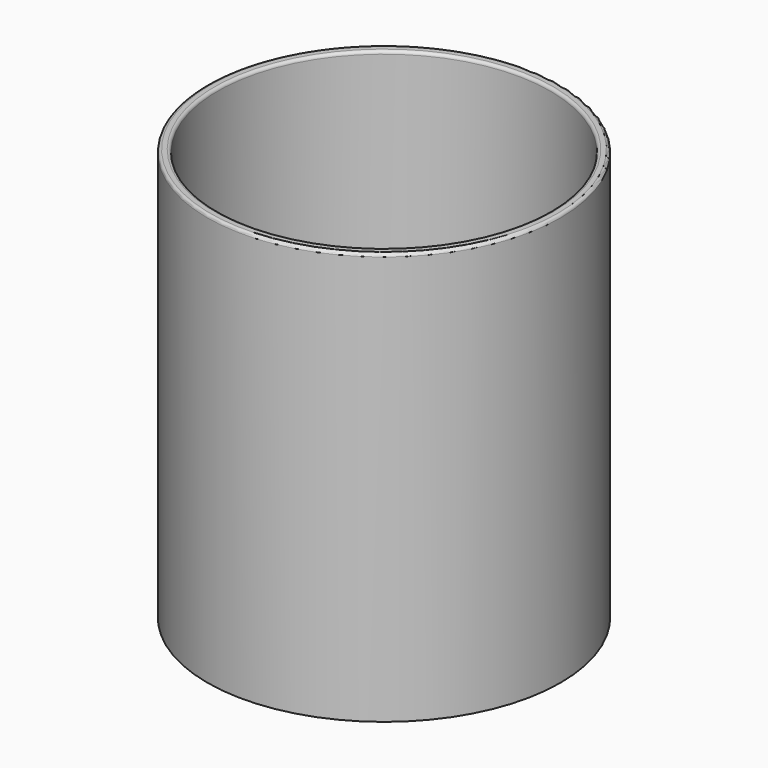
from build123d import *

# Parameters (mm, degrees)
F0_R     = 30
F1_DEPTH = 70
F2_T     = -1.75
F3_R     = 0.5


with BuildPart() as f1:
    # F0 (on Top) → F1 (new body)
    with BuildSketch(Plane.XY):
        Circle(F0_R)
    extrude(amount=F1_DEPTH)

    # F2
    f2_openings = [f1.faces().sort_by_distance(p)[0] for p in [
        (0, 0, 70),
    ]]
    offset(amount=F2_T, openings=f2_openings)

    # F3
    f3_edges = [f1.edges().sort_by_distance(p)[0] for p in [
        (-30, 0, 70),
        (-28.25, 0, 70),
    ]]
    fillet(f3_edges, radius=F3_R)


solid = f1.part
